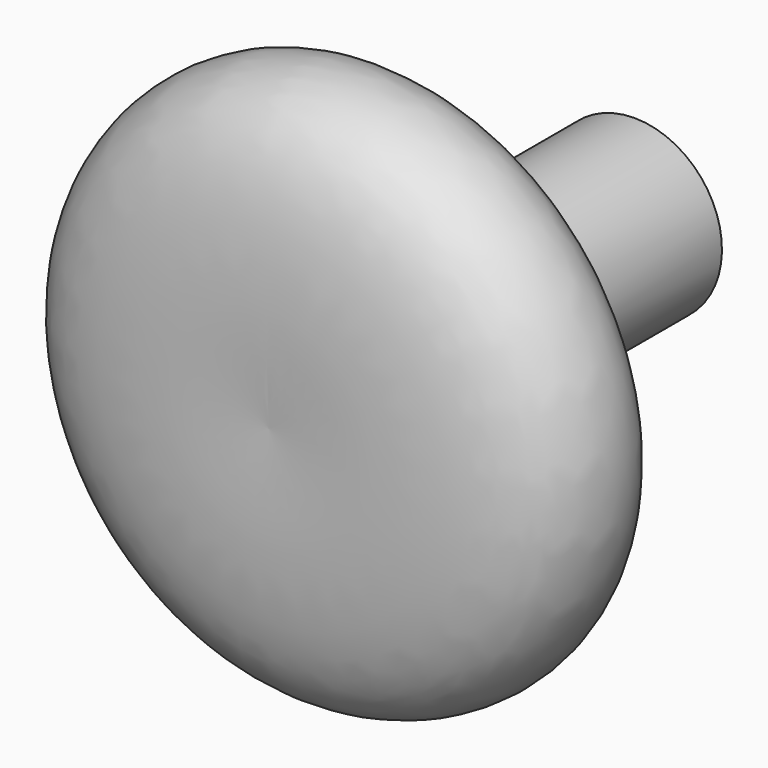
from build123d import *


with BuildPart() as f1:
    # F0 (on Right) → F1 (revolve)
    with BuildSketch(Plane.YZ):
        with BuildLine():
            Line((-25.1123512692, 0), (0, 0))
            Line((0, 0), (0, 4.8))
            Line((0, 4.8), (-8.3594453112, 4.8))
            add(Edge.make_bspline(
                [(-25.1123512692, 0), (-25.2557607242, 2.8700559409), (-25.524576334, 8.0567934416), (-23.7986894086, 14.751740831), (-17.5094993602, 15.8607069563), (-15.1811221137, 10.6463252787), (-13.900304828, 4.6425635021), (-10.2152584931, 4.7539901992), (-8.3594453112, 4.8)],
                knots=[0, 0, 0, 0, 0.2012085991, 0.374764349, 0.5258255185, 0.6837980197, 0.8466374353, 1, 1, 1, 1], degree=3))
        make_face()
    revolve(axis=Axis((0, -12.5561756346, 0), (0, -1, 0)))


solid = f1.part
